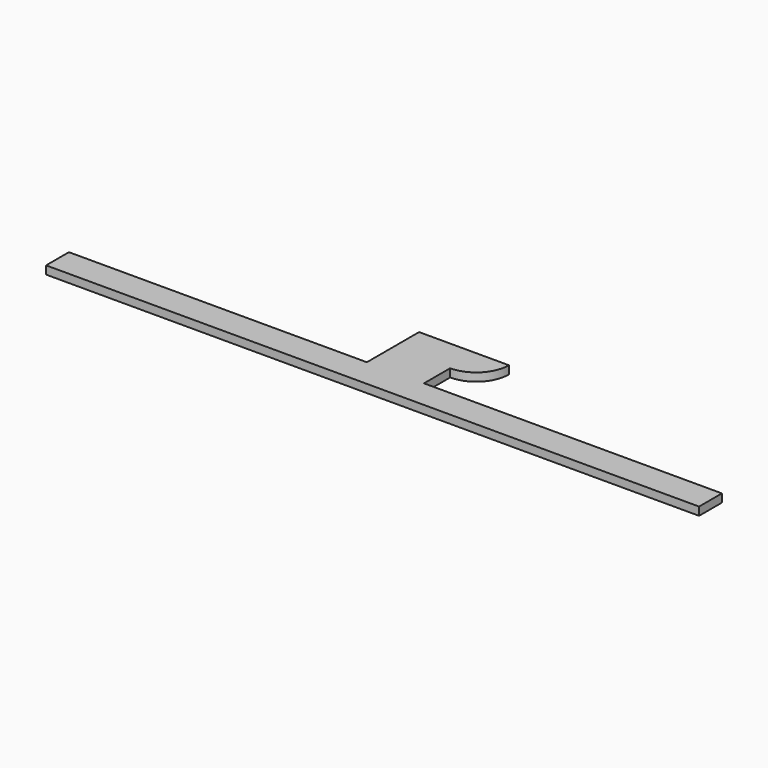
from build123d import *

# Parameters (mm, degrees)
PAD_DEPTH = 0.02


with BuildPart() as part:
    # Sketch → Pad (new body)
    with BuildSketch(Plane.XY):
        with BuildLine():
            Line((0.8, 0.035), (0.8, -0.035))
            Line((0.8, -0.035), (-0.8, -0.035))
            Line((-0.8, -0.035), (-0.8, 0.035))
            Line((-0.8, 0.035), (-0.07, 0.035))
            Line((-0.07, 0.035), (-0.07, 0.195))
            Line((-0.07, 0.195), (0.15, 0.195))
            ThreePointArc((0.07, 0.115), (0.126569, 0.138431), (0.15, 0.195))
            Line((0.07, 0.115), (0.07, 0.035))
            Line((0.07, 0.035), (0.8, 0.035))
        make_face()
    extrude(amount=PAD_DEPTH)


solid = part.part
